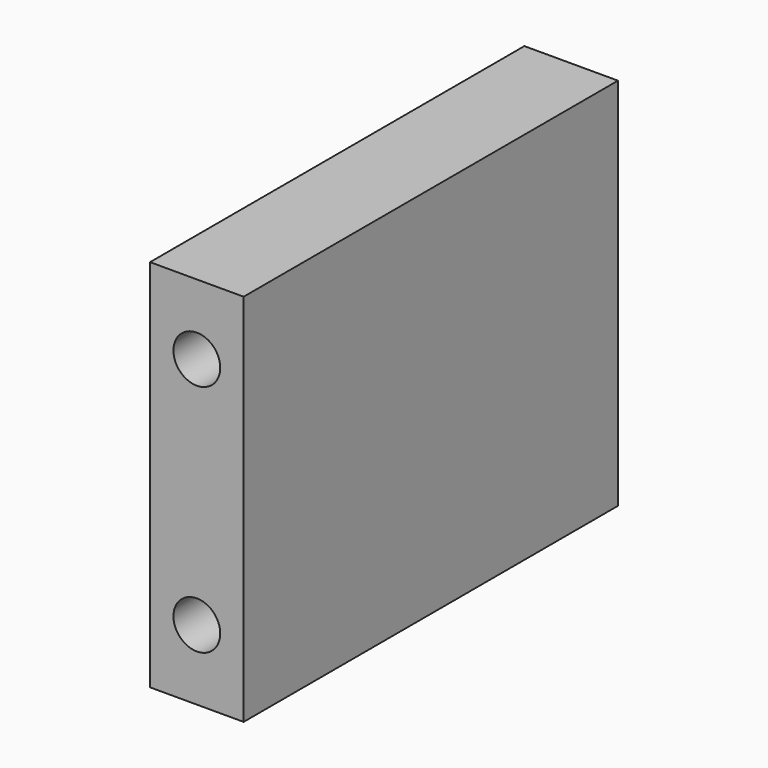
from build123d import *

# Parameters (mm, degrees)
F0_W     = 63.5
F0_H     = 50.8
F1_DEPTH = 12.7
F3_D     = 6.35


with BuildPart() as f1:
    # F0 (on Right) → F1 (new body)
    with BuildSketch(Plane.YZ):
        Rectangle(F0_W, F0_H)
    extrude(amount=F1_DEPTH)

    # F3 (through all)
    with Locations(Plane.XZ.offset(31.75)):
        with Locations((6.35, 15.875), (6.35, -15.875)):
            Hole(F3_D / 2)


solid = f1.part
